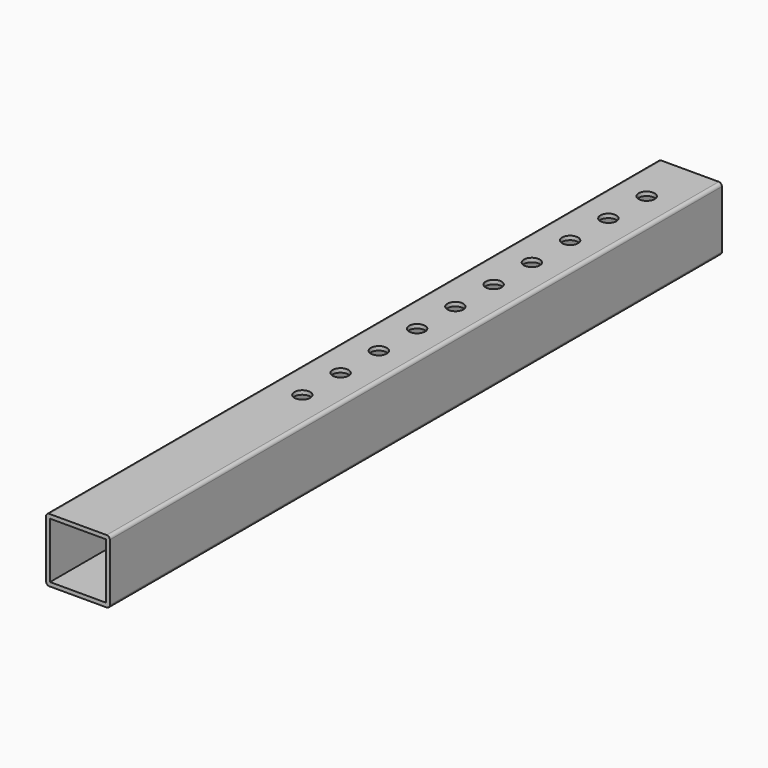
from build123d import *

# Parameters (mm, degrees)
F0_W     = 101.6
F0_H     = 101.6
F0_W_2   = 88.9
F0_H_2   = 88.9
F1_DEPTH = 609.6
F2_R     = 5.08
F3_R     = 12.7
F4_DEPTH = 101.601


with BuildPart() as f1:
    # F0 (on Front) → F1 (new body, symmetric)
    with BuildSketch(Plane.XZ):
        Rectangle(F0_W, F0_H)
        Rectangle(F0_W_2, F0_H_2, mode=Mode.SUBTRACT)
    extrude(amount=F1_DEPTH, both=True)

    # F2
    f2_edges = [f1.edges().sort_by_distance(p)[0] for p in [
        (-50.8, 0, 50.8),
        (50.8, 0, 50.8),
        (50.8, 0, -50.8),
        (-50.8, 0, -50.8),
    ]]
    fillet(f2_edges, radius=F2_R)

    # F3 (on face) → F4 (cut, through all)
    with BuildSketch(Plane.XY.offset(50.8)):
        with Locations((0, 523.160219)):
            Circle(F3_R)
        with Locations((0, 446.960219)):
            Circle(F3_R)
        with Locations((0, 370.760219)):
            Circle(F3_R)
        with Locations((0, 294.560219)):
            Circle(F3_R)
        with Locations((0, 218.360219)):
            Circle(F3_R)
        with Locations((0, 142.160219)):
            Circle(F3_R)
        with Locations((0, 65.960219)):
            Circle(F3_R)
        with Locations((0, -10.239781)):
            Circle(F3_R)
        with Locations((0, -86.439781)):
            Circle(F3_R)
        with Locations((0, -162.639781)):
            Circle(F3_R)
    extrude(amount=-F4_DEPTH, mode=Mode.SUBTRACT)


solid = f1.part
